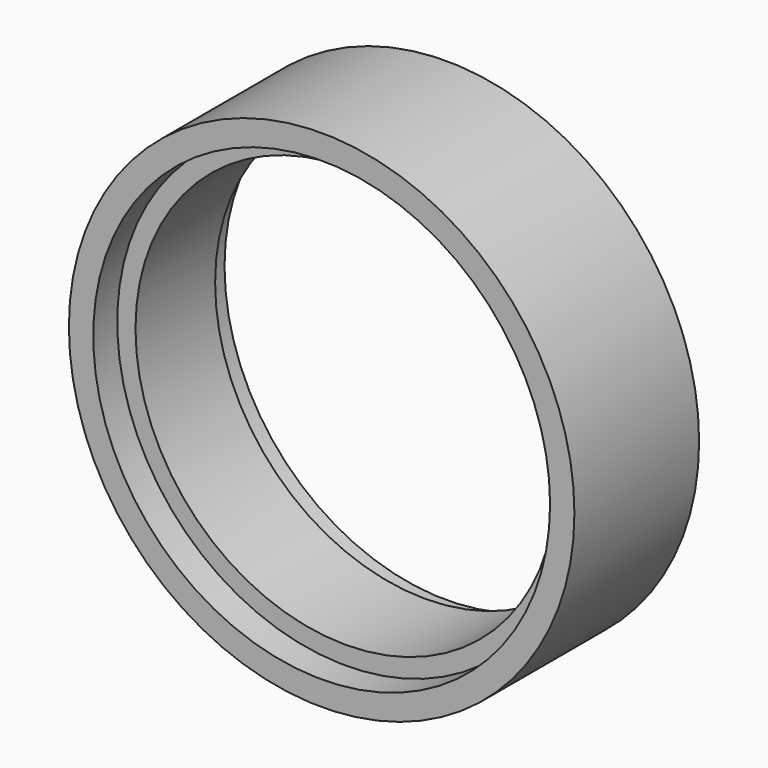
from build123d import *

# Parameters (mm, degrees)
F0_R     = 21.082
F0_R_2   = 17.526
F1_DEPTH = 13
F2_R     = 19.05
F3_DEPTH = 2.5
F4_R     = 18.5
F5_DEPTH = 2.2


with BuildPart() as f1:
    # F0 (on Front) → F1 (new body)
    with BuildSketch(Plane.XZ):
        Circle(F0_R)
        Circle(F0_R_2, mode=Mode.SUBTRACT)
    extrude(amount=F1_DEPTH)

    # F2 (on face) → F3 (cut)
    with BuildSketch(Plane.XZ.offset(13)):
        Circle(F2_R)
    extrude(amount=-F3_DEPTH, mode=Mode.SUBTRACT)

    # F4 (on face) → F5 (cut)
    with BuildSketch(Plane(origin=(0, 0, 0), x_dir=(-1, 0, 0), z_dir=(0, 1, 0))):
        Circle(F4_R)
    extrude(amount=-F5_DEPTH, mode=Mode.SUBTRACT)


solid = f1.part
